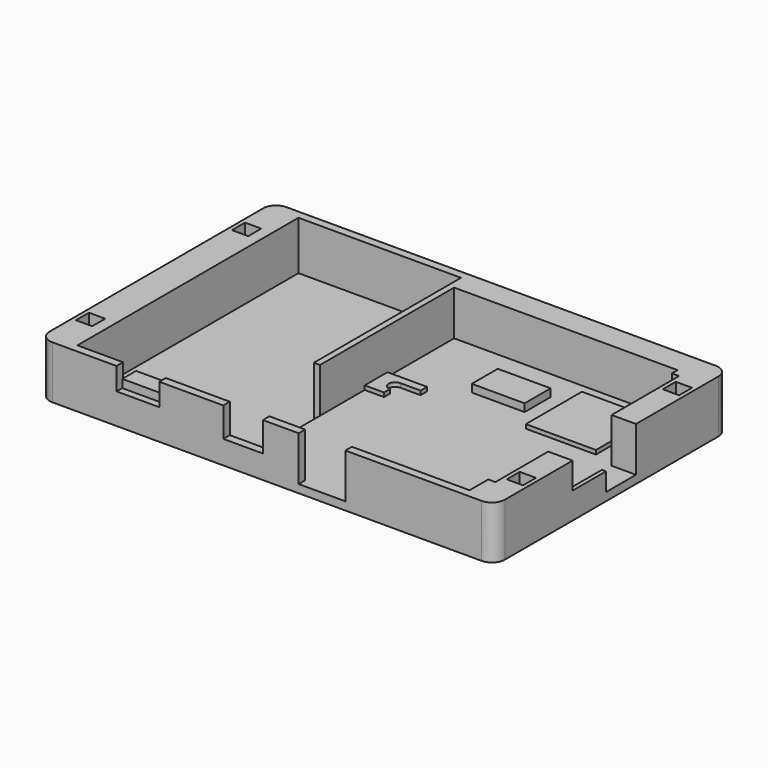
from build123d import *

# Parameters (mm, degrees)
F0_W      = 8
F0_H      = 8
F0_W_2    = 17.6
F0_H_2    = 4
F0_W_3    = 31.5
F0_W_4    = 9.5
F0_H_3    = 37.5
F0_W_5    = 35
F0_H_4    = 34.5
F0_W_6    = 26
F0_H_5    = 15
F0_H_6    = 16
F0_H_7    = 5
F0_W_7    = 12
F0_H_8    = 37
F0_W_8    = 23
F1_DEPTH  = 2
F2_W      = 224
F2_H      = 144
F3_DEPTH  = 24
F4_W      = 21
F4_H      = 4
F5_DEPTH  = 11
F6_W      = 21
F6_H      = 8.5
F7_DEPTH  = 17
F8_R      = 6.35
F9_W      = 34.5
F9_H      = 34.5
F10_DEPTH = 4
F11_W     = 26
F11_H     = 16
F12_DEPTH = 5.8
F14_DEPTH = 4
F15_W     = 19.5
F15_H     = 4
F16_DEPTH = 14.5
F17_W     = 8
F17_H     = 8
F18_DEPTH = 13
F19_W     = 2
F19_H     = 20.5
F20_DEPTH = 13
F21_W     = 2
F21_H     = 18.5
F22_DEPTH = 22
F25_W     = 23
F25_H     = 4
F26_DEPTH = 22
F28_DEPTH = 2


with BuildPart() as f1:
    # F0 (on Top) → F1 (new body)
    with BuildSketch(Plane.XY):
        Polygon((-224, 144), (-224, 0), (-186, 0), (-186, 4), (-208.5, 4), (-208.5, 140), (-128.5, 140), (-128.5, 49.5), (-125.5, 49.5), (-125.5, 87), (-125.5, 132), (-90, 132), (-64, 132), (-15.5, 132), (-15.5, 128.5), (-12, 128.5), (-12, 87), (0, 87), (0, 144), align=None)
        with Locations((-218, 24)):
            Rectangle(F0_W, F0_H, mode=Mode.SUBTRACT)
        with Locations((-218, 120)):
            Rectangle(F0_W, F0_H, mode=Mode.SUBTRACT)
        with Locations((-6, 120)):
            Rectangle(F0_W, F0_H, mode=Mode.SUBTRACT)
        Polygon((-208.5, 4), (-186, 4), (-186, 12), (-165, 12), (-165, 4), (-133.5, 4), (-128.5, 4), (-128.5, 49.5), (-128.5, 140), (-208.5, 140), align=None)
        Polygon((-224, 144), (-224, 0), (-186, 0), (-186, 4), (-208.5, 4), (-208.5, 140), (-128.5, 140), (-128.5, 49.5), (-125.5, 49.5), (-125.5, 87), (-125.5, 132), (-90, 132), (-64, 132), (-15.5, 132), (-15.5, 128.5), (-12, 128.5), (-12, 87), (0, 87), (0, 144), align=None)
        with Locations((-218, 24)):
            Rectangle(F0_W, F0_H, mode=Mode.SUBTRACT)
        with Locations((-218, 120)):
            Rectangle(F0_W, F0_H, mode=Mode.SUBTRACT)
        with Locations((-6, 120)):
            Rectangle(F0_W, F0_H, mode=Mode.SUBTRACT)
        Polygon((-133.5, 4), (-133.5, 0), (-114, 0), (-114, 4), (-128.5, 4), align=None)
        with Locations((-105.2, 2)):
            Rectangle(F0_W_2, F0_H_2)
        with Locations((-149.25, 2)):
            Rectangle(F0_W_3, F0_H_2)
        Polygon((-186, 4), (-186, 0), (-165, 0), (-165, 4), (-165, 12), (-186, 12), align=None)
        with Locations((-120.75, 68.25)):
            Rectangle(F0_W_4, F0_H_3)
        Polygon((-116, 87), (-12, 87), (-12, 128.5), (-15.5, 128.5), (-15.5, 132), (-64, 132), (-64, 117), (-64, 101), (-64, 96), (-90, 96), (-90, 101), (-90, 117), (-90, 132), (-125.5, 132), (-125.5, 87), align=None)
        with Locations((-39.5, 107.75)):
            Rectangle(F0_W_5, F0_H_4, mode=Mode.SUBTRACT)
        with Locations((-77, 124.5)):
            Rectangle(F0_W_6, F0_H_5)
        with Locations((-77, 109)):
            Rectangle(F0_W_6, F0_H_6)
        with Locations((-77, 98.5)):
            Rectangle(F0_W_6, F0_H_7)
        with Locations((-39.5, 107.75)):
            Rectangle(F0_W_5, F0_H_4)
        with Locations((-6, 120)):
            Rectangle(F0_W, F0_H)
        with Locations((-218, 120)):
            Rectangle(F0_W, F0_H)
        with Locations((-218, 24)):
            Rectangle(F0_W, F0_H)
        with Locations((-6, 68.5)):
            Rectangle(F0_W_7, F0_H_8)
        Polygon((-12, 50), (-12, 87), (-116, 87), (-116, 49.5), (-125.5, 49.5), (-128.5, 49.5), (-128.5, 4), (-114, 4), (-96.4, 4), (-73.4, 4), (-15.5, 4), (-15.5, 15.5), (-12, 15.5), align=None)
        Polygon((0, 0), (0, 50), (-12, 50), (-12, 15.5), (-15.5, 15.5), (-15.5, 4), (-73.4, 4), (-73.4, 0), align=None)
        with Locations((-6, 24)):
            Rectangle(F0_W, F0_H, mode=Mode.SUBTRACT)
        with Locations((-6, 24)):
            Rectangle(F0_W, F0_H)
        with Locations((-84.9, 2)):
            Rectangle(F0_W_8, F0_H_2)
    extrude(amount=F1_DEPTH)

    # F2 (on face) → F3 (join)
    with BuildSketch(Plane.XY.offset(2)):
        with Locations((-112, 72)):
            Rectangle(F2_W, F2_H)
        Polygon((-208.5, 4), (-208.5, 140), (-128.5, 140), (-128.5, 49.5), (-125.5, 49.5), (-125.5, 132), (-15.5, 132), (-15.5, 128.5), (-12, 128.5), (-12, 87), (-2, 87), (-2, 50), (-2, 48), (-12, 48), (-12, 15.5), (-15.5, 15.5), (-15.5, 4), align=None, mode=Mode.SUBTRACT)
    extrude(amount=F3_DEPTH)

    # F4 (on face) → F5 (cut)
    with BuildSketch(Plane.XY.offset(26)):
        with Locations((-175.5, 2)):
            Rectangle(F4_W, F4_H)
    extrude(amount=-F5_DEPTH, mode=Mode.SUBTRACT)

    # F6 (on face) → F7 (join)
    with BuildSketch(Plane.XY.offset(2)):
        with Locations((-175.5, 7.75)):
            Rectangle(F6_W, F6_H)
    extrude(amount=F7_DEPTH)

    # F8
    f8_edges = [f1.edges().sort_by_distance(p)[0] for p in [
        (-224, 0, 13),
        (0, 0, 13),
        (0, 144, 13),
        (-224, 144, 13),
    ]]
    fillet(f8_edges, radius=F8_R)

    # F9 (on face) → F10 (join)
    with BuildSketch(Plane.XY.offset(2)):
        with Locations((-39.75, 107.75)):
            Rectangle(F9_W, F9_H)
    extrude(amount=F10_DEPTH)

    # F11 (on face) → F12 (join)
    with BuildSketch(Plane.XY.offset(2)):
        with Locations((-79, 109)):
            Rectangle(F11_W, F11_H)
    extrude(amount=F12_DEPTH)

    # F13 (on face) → F14 (join)
    with BuildSketch(Plane.XY.offset(2)):
        with BuildLine():
            ThreePointArc((-116, 80.65), (-119.175, 83.825), (-116, 87))
            Line((-116, 87), (-106, 87))
            Line((-106, 87), (-106, 91))
            Line((-106, 91), (-125.5, 91))
            Line((-125.5, 91), (-125.5, 77))
            Line((-125.5, 77), (-116, 77))
            Line((-116, 77), (-116, 80.65))
        make_face()
    extrude(amount=F14_DEPTH)

    # F15 (on face) → F16 (cut)
    with BuildSketch(Plane.XY.offset(26)):
        with Locations((-123.75, 2)):
            Rectangle(F15_W, F15_H)
    extrude(amount=-F16_DEPTH, mode=Mode.SUBTRACT)

    # F17 (on face) → F18 (cut)
    with BuildSketch(Plane.XY.offset(26)):
        with Locations((-218, 120)):
            Rectangle(F17_W, F17_H)
        with Locations((-6, 120)):
            Rectangle(F17_W, F17_H)
        with Locations((-218, 24)):
            Rectangle(F17_W, F17_H)
        with Locations((-6, 24)):
            Rectangle(F17_W, F17_H)
    extrude(amount=-F18_DEPTH, mode=Mode.SUBTRACT)

    # F19 (on face) → F20 (cut)
    with BuildSketch(Plane.XY.offset(26)):
        with Locations((-1, 58.25)):
            Rectangle(F19_W, F19_H)
    extrude(amount=-F20_DEPTH, mode=Mode.SUBTRACT)

    # F21 (on face) → F22 (cut)
    with BuildSketch(Plane.XY.offset(26)):
        with Locations((-1, 77.75)):
            Rectangle(F21_W, F21_H)
    extrude(amount=-F22_DEPTH, mode=Mode.SUBTRACT)

    # F25 (on face) → F26 (cut)
    with BuildSketch(Plane.XY.offset(26)):
        with Locations((-84.9, 2)):
            Rectangle(F25_W, F25_H)
    extrude(amount=-F26_DEPTH, mode=Mode.SUBTRACT)

    # F27 (on face) → F28 (join)
    with BuildSketch(Plane.XY.offset(2)):
        Polygon((-125.5, 132), (-125.5, 4), (-12, 4), (-12, 48), (-2, 48), (-2, 87), (-12, 87), (-12, 132), align=None)
    extrude(amount=F28_DEPTH)


solid = f1.part
